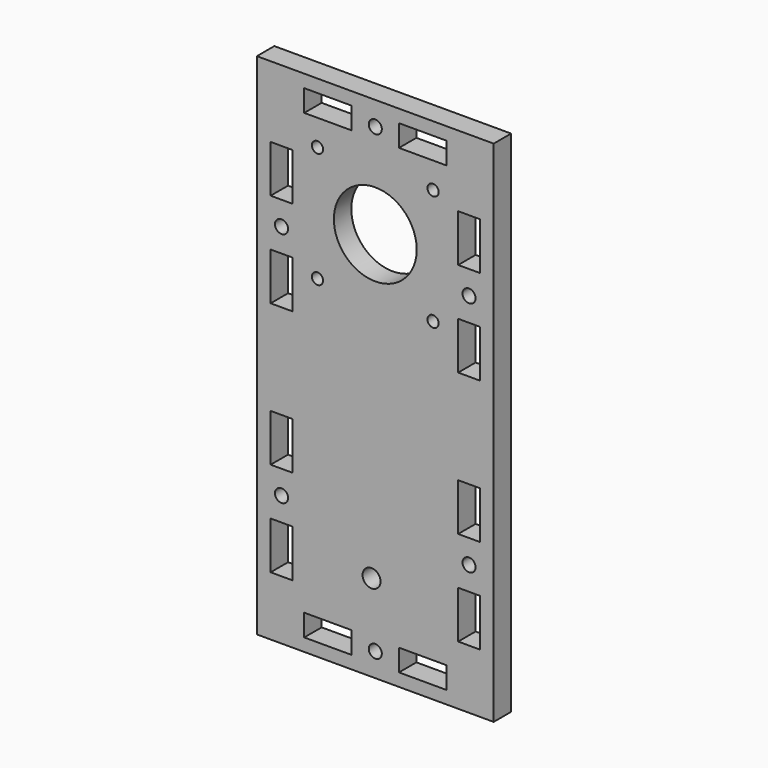
from build123d import *

# Parameters (mm, degrees)
F0_W     = 63.5
F0_H     = 136.525
F0_W_2   = 12.7
F0_H_2   = 5.842
F0_R     = 2.413
F0_R_2   = 1.7526
F0_R_3   = 1.5
F0_R_4   = 11.1125
F1_DEPTH = 5.842
F2_W     = 5.842
F2_H     = 12.7
F2_R     = 1.7526
F3_DEPTH = 25.4


with BuildPart() as f1:
    # F0 (on Front) → F1 (new body)
    with BuildSketch(Plane.XZ):
        Rectangle(F0_W, F0_H)
        with Locations((-12.7, -61.9125)):
            Rectangle(F0_W_2, F0_H_2, mode=Mode.SUBTRACT)
        with Locations((-1, -44.9875)):
            Circle(F0_R, mode=Mode.SUBTRACT)
        with Locations((0, -61.9125)):
            Circle(F0_R_2, mode=Mode.SUBTRACT)
        with Locations((12.7, -61.9125)):
            Rectangle(F0_W_2, F0_H_2, mode=Mode.SUBTRACT)
        with Locations((-15.5, 21.0125)):
            Circle(F0_R_3, mode=Mode.SUBTRACT)
        with Locations((-15.5, 52.0125)):
            Circle(F0_R_3, mode=Mode.SUBTRACT)
        with Locations((-12.7, 61.9125)):
            Rectangle(F0_W_2, F0_H_2, mode=Mode.SUBTRACT)
        with Locations((15.5, 21.0125)):
            Circle(F0_R_3, mode=Mode.SUBTRACT)
        with Locations((0, 36.5125)):
            Circle(F0_R_4, mode=Mode.SUBTRACT)
        with Locations((0, 61.9125)):
            Circle(F0_R_2, mode=Mode.SUBTRACT)
        with Locations((15.5, 52.0125)):
            Circle(F0_R_3, mode=Mode.SUBTRACT)
        with Locations((12.7, 61.9125)):
            Rectangle(F0_W_2, F0_H_2, mode=Mode.SUBTRACT)
    extrude(amount=F1_DEPTH)

    # F2 (on face) → F3 (cut)
    with BuildSketch(Plane.XZ.offset(5.842)):
        with Locations((-25.146, 42.8625)):
            Rectangle(F2_W, F2_H)
        with Locations((-25.146, 17.4625)):
            Rectangle(F2_W, F2_H)
        with Locations((-25.146, 30.1625)):
            Circle(F2_R)
        with Locations((25.146, 17.4625)):
            Rectangle(F2_W, F2_H)
        with Locations((25.146, 42.8625)):
            Rectangle(F2_W, F2_H)
        with Locations((25.146, 30.1625)):
            Circle(F2_R)
        with Locations((-25.146, -20.6375)):
            Rectangle(F2_W, F2_H)
        with Locations((-25.146, -33.3375)):
            Circle(F2_R)
        with Locations((-25.146, -46.0375)):
            Rectangle(F2_W, F2_H)
        with Locations((25.146, -20.6375)):
            Rectangle(F2_W, F2_H)
        with Locations((25.146, -46.0375)):
            Rectangle(F2_W, F2_H)
        with Locations((25.146, -33.3375)):
            Circle(F2_R)
    extrude(amount=-F3_DEPTH, mode=Mode.SUBTRACT)


solid = f1.part
